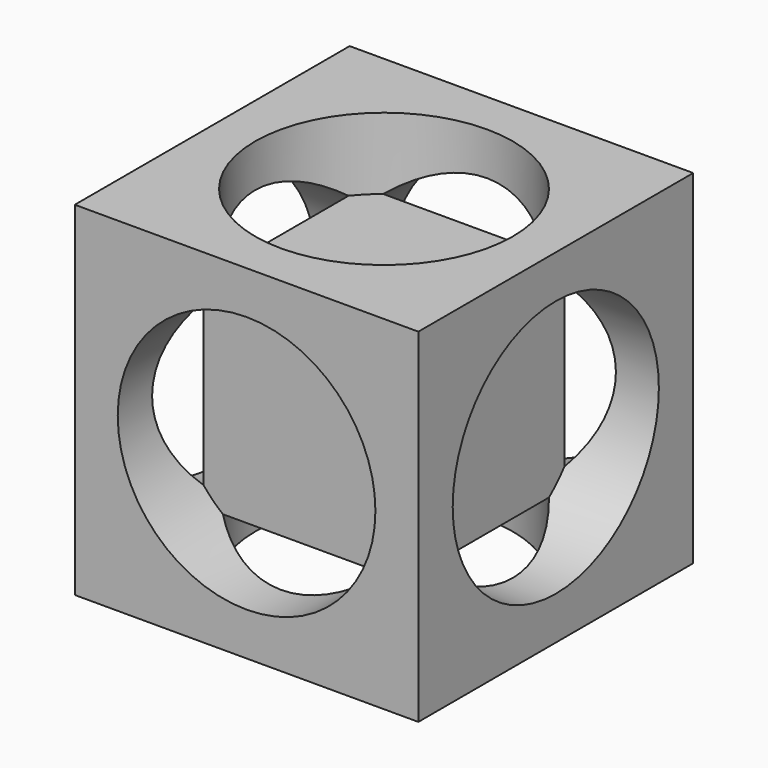
from build123d import *

# Parameters (mm, degrees)
F2_W          = 60
F2_H          = 60
F3_DEPTH      = 30
F3_DEPTH_BACK = 30
F9_R          = 22.5
F10_DEPTH     = 12.5
F6_R          = 22.5
F11_DEPTH     = 12.5
F5_R          = 22.5
F12_DEPTH     = 12.5
F8_R          = 22.5
F13_DEPTH     = 12.5
F7_R          = 22.5
F14_DEPTH     = 12.5
F4_R          = 22.5
F15_DEPTH     = 12.5


with BuildPart() as f3:
    # F2 (on Top) → F3 (new body, two sides)
    with BuildSketch(Plane.XY) as f3_sk:
        Rectangle(F2_W, F2_H)
    extrude(amount=F3_DEPTH)
    extrude(f3_sk.sketch, amount=-F3_DEPTH_BACK)

    # F9 (on face) → F10 (cut)
    with BuildSketch(Plane(origin=(0, 0, -30), x_dir=(1, 0, 0), z_dir=(0, 0, -1))):
        Circle(F9_R)
    extrude(amount=-F10_DEPTH, mode=Mode.SUBTRACT)

    # F6 (on face) → F11 (cut)
    with BuildSketch(Plane(origin=(-30, 0, 0), x_dir=(0, -1, 0), z_dir=(-1, 0, 0))):
        Circle(F6_R)
    extrude(amount=-F11_DEPTH, mode=Mode.SUBTRACT)

    # F5 (on face) → F12 (cut)
    with BuildSketch(Plane.XZ.offset(30)):
        Circle(F5_R)
    extrude(amount=-F12_DEPTH, mode=Mode.SUBTRACT)

    # F8 (on face) → F13 (cut)
    with BuildSketch(Plane.YZ.offset(30)):
        Circle(F8_R)
    extrude(amount=-F13_DEPTH, mode=Mode.SUBTRACT)

    # F7 (on face) → F14 (cut)
    with BuildSketch(Plane(origin=(0, 30, 0), x_dir=(-1, 0, 0), z_dir=(0, 1, 0))):
        Circle(F7_R)
    extrude(amount=-F14_DEPTH, mode=Mode.SUBTRACT)

    # F4 (on face) → F15 (cut)
    with BuildSketch(Plane.XY.offset(30)):
        Circle(F4_R)
    extrude(amount=-F15_DEPTH, mode=Mode.SUBTRACT)


solid = f3.part
